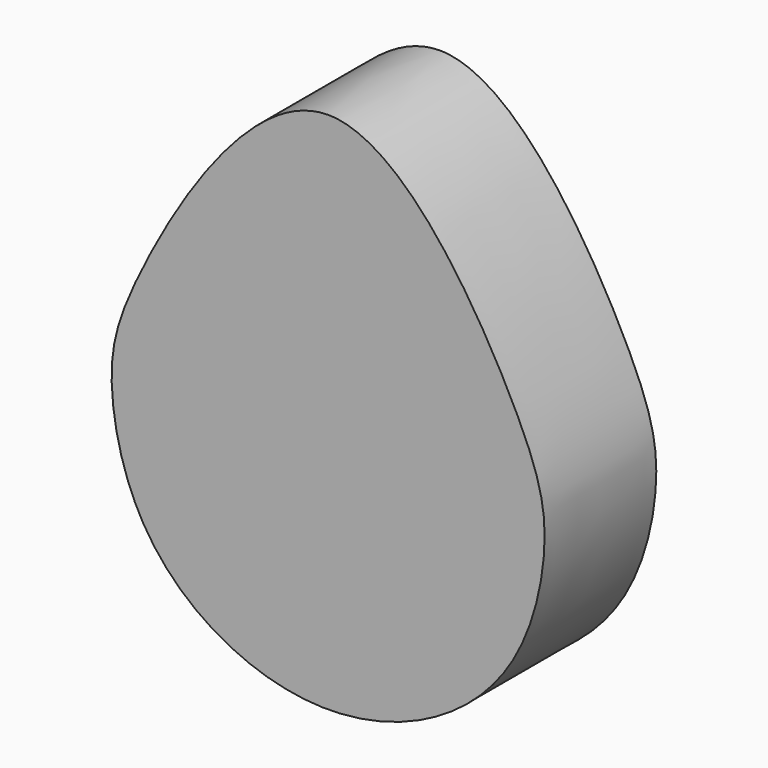
from build123d import *

# Parameters (mm, degrees)
F1_DEPTH = 10


with BuildPart() as f1:
    # F0 (on Front) → F1 (new body)
    with BuildSketch(Plane.XZ):
        with BuildLine():
            add(Edge.make_bspline(
                [(0, 22), (-5.4164189531, 22), (-14.3003714454, 7.3521072716), (-16.0824154897, 0.4938154649), (-14.0887858833, -8.2452301212), (-8.1028035292, -14.0128949802), (0, -16.2435525099), (8.1028035292, -14.0128949802), (14.0887858833, -8.2452301212), (16.0824154897, 0.4938154649), (14.3003714454, 7.3521072716), (5.4164189531, 22), (0, 22)],
                knots=[0, 0, 0, 0, 0.1404195691, 0.2303146768, 0.3202097845, 0.4101048923, 0.5, 0.5898951077, 0.6797902155, 0.7696853232, 0.8595804309, 1, 1, 1, 1], degree=3))
        make_face()
    extrude(amount=F1_DEPTH)


solid = f1.part
